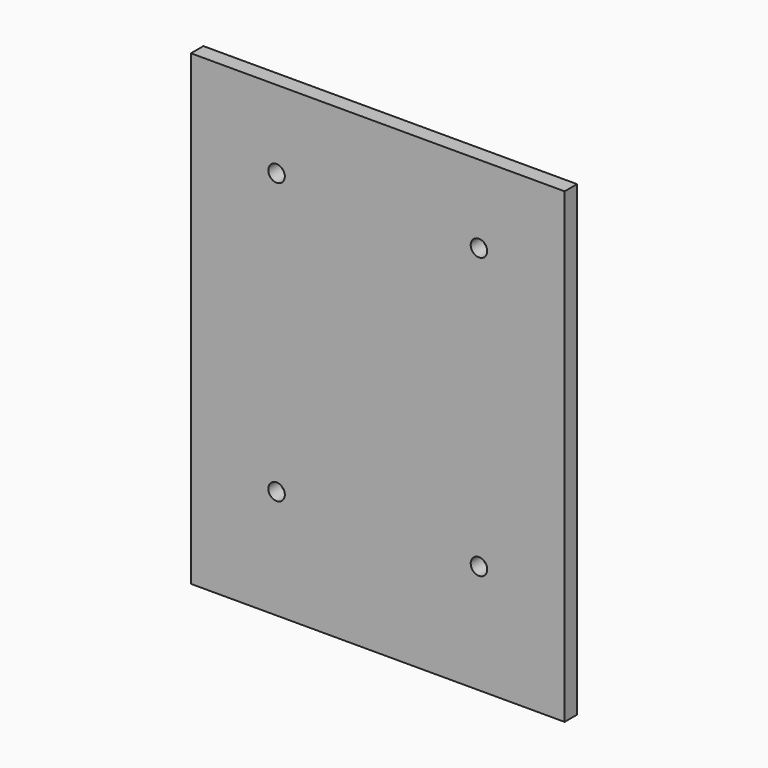
from build123d import *

# Parameters (mm, degrees)
F0_W     = 304.8
F0_H     = 381
F1_DEPTH = 12.7
F3_D     = 13.49248


with BuildPart() as f1:
    # F0 (on Front) → F1 (new body)
    with BuildSketch(Plane.XZ):
        with Locations((152.4, 190.5)):
            Rectangle(F0_W, F0_H)
    extrude(amount=F1_DEPTH)

    # F3 (through all)
    with Locations(Plane.XZ.offset(12.7)):
        with Locations((69.85, 317.5), (234.95, 317.5), (69.85, 88.9), (234.95, 88.9)):
            Hole(F3_D / 2)


solid = f1.part
